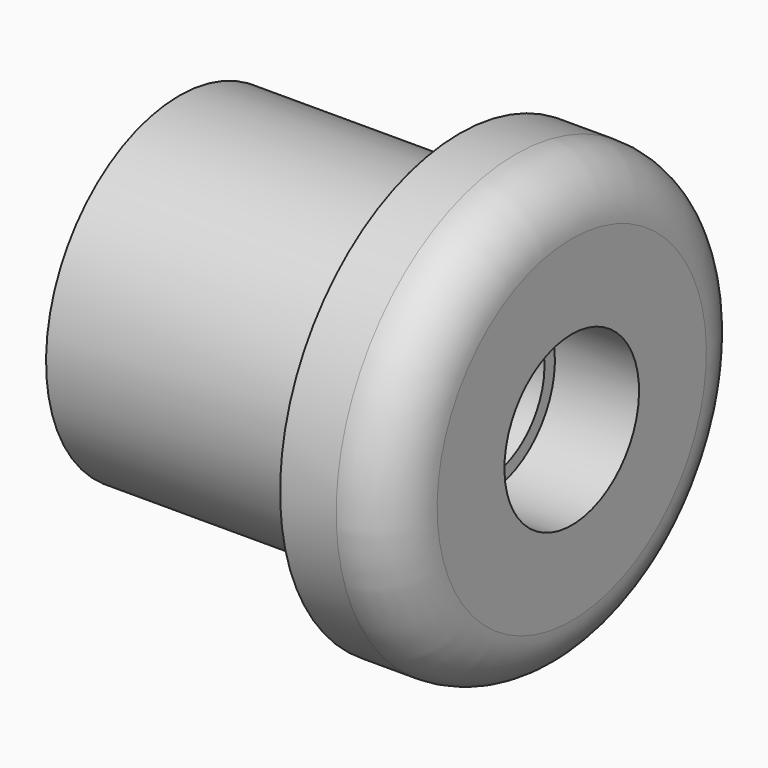
from build123d import *

# Parameters (mm, degrees)
F2_R = 1


with BuildPart() as f1:
    # F0 (on Front) → F1 (revolve)
    with BuildSketch(Plane.XZ):
        Polygon((0, 1.267), (0, 1.5), (1.5, 1.5), (1.5, 4), (-0.5, 4), (-0.5, 2.967), (-5.5, 2.967), (-5.5, 1.267), align=None)
    revolve(axis=Axis((4.186566, 0, 0), (1, 0, 0)))

    # F2
    f2_edges = [f1.edges().sort_by_distance(p)[0] for p in [
        (1.5, 0, -4),
    ]]
    fillet(f2_edges, radius=F2_R)


solid = f1.part
